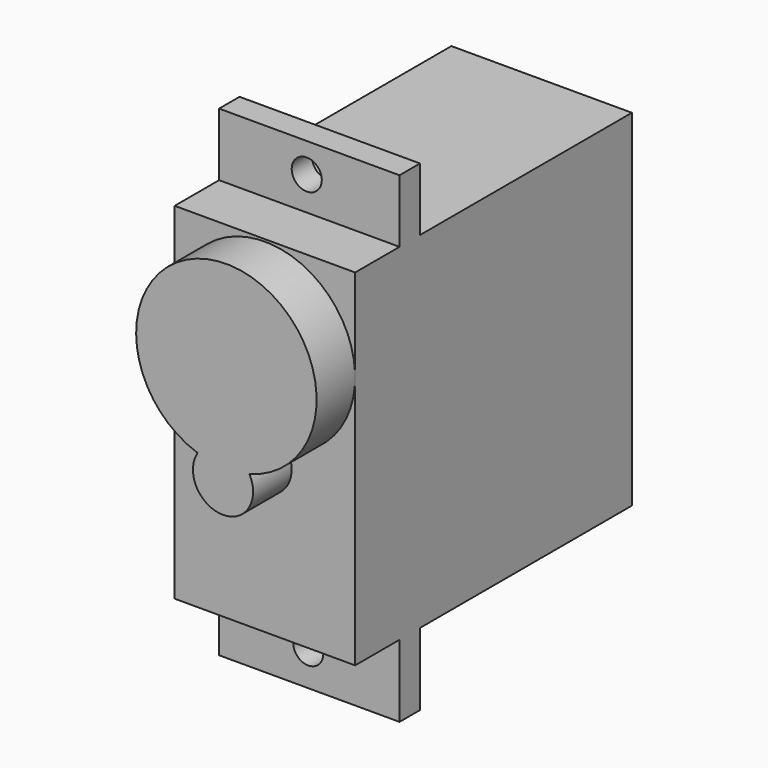
from build123d import *

# Parameters (mm, degrees)
CYLINDER036_R             = 6
CYLINDER036_DEPTH         = 10
CYLINDER032_R             = 1
CYLINDER032_DEPTH         = 10
CYLINDER034_R             = 1
CYLINDER034_DEPTH         = 10
BOX003_W                  = 23
BOX003_H                  = 12
BOX003_DEPTH              = 23
BOX004_W                  = 32
BOX004_H                  = 12
BOX004_DEPTH              = 1.7
CYLINDER035_R             = 2
CYLINDER035_DEPTH         = 10
FUSION005_PITCH_ANGLE     = 90
FUSION005_PLACEMENT_ANGLE = -90


with BuildPart() as cylinder036:
    # Cylinder036 → Cylinder036 (new body)
    with BuildSketch(Plane(origin=(34.4857, 34.67, 6.56), x_dir=(1, 0, 0), z_dir=(0, 0, 1))):
        Circle(CYLINDER036_R)
    extrude(amount=CYLINDER036_DEPTH)


with BuildPart() as cylinder032:
    # Cylinder032 → Cylinder032 (new body)
    with BuildSketch(Plane(origin=(53.8219, 34.6, 2.58368), x_dir=(1, 0, 0), z_dir=(0, 0, 1))):
        Circle(CYLINDER032_R)
    extrude(amount=CYLINDER032_DEPTH)


with BuildPart() as cylinder034:
    # Cylinder034 → Cylinder034 (new body)
    with BuildSketch(Plane(origin=(26.1112, 34.5, 1.79316), x_dir=(1, 0, 0), z_dir=(0, 0, 1))):
        Circle(CYLINDER034_R)
    extrude(amount=CYLINDER034_DEPTH)


with BuildPart() as box003:
    # Box003 → Box003 (new body)
    with BuildSketch(Plane(origin=(28.340083, 28.670488, -9.643048), x_dir=(1, 0, 0), z_dir=(0, 0, 1))):
        with Locations((11.5, 6)):
            Rectangle(BOX003_W, BOX003_H)
    extrude(amount=BOX003_DEPTH)


with BuildPart() as cut039:
    # Box004 → Box004 (new body)
    with BuildSketch(Plane(origin=(24.149959, 28.670488, 7.966797), x_dir=(1, 0, 0), z_dir=(0, 0, 1))):
        with Locations((16, 6)):
            Rectangle(BOX004_W, BOX004_H)
    extrude(amount=BOX004_DEPTH)

    # Fusion003: union Box003
    add(box003.part)

    # Cut038: cut Cylinder034
    add(cylinder034.part, mode=Mode.SUBTRACT)

    # Cut039: cut Cylinder032
    add(cylinder032.part, mode=Mode.SUBTRACT)


with BuildPart() as fusion005:
    # Cylinder035 → Cylinder035 (new body)
    with BuildSketch(Plane(origin=(41.2515, 34.4472, 6.56), x_dir=(1, 0, 0), z_dir=(0, 0, 1))):
        Circle(CYLINDER035_R)
    extrude(amount=CYLINDER035_DEPTH)

    # Fusion005: union Cylinder036, Cut039
    add(cylinder036.part)
    add(cut039.part)


with BuildPart() as fusion005_1:
    # Fusion005 pitch: moved
    add(fusion005.part.rotate(Axis((0, 0, 0), (0, 1, 0)), FUSION005_PITCH_ANGLE))


with BuildPart() as fusion005_2:
    # Fusion005 placement: moved
    add(fusion005_1.part.moved(Location((-49, 17.44, 105.53))).rotate(Axis((-49, 17.44, 105.53), (0, 0, 1)), FUSION005_PLACEMENT_ANGLE))


solid = fusion005_2.part
